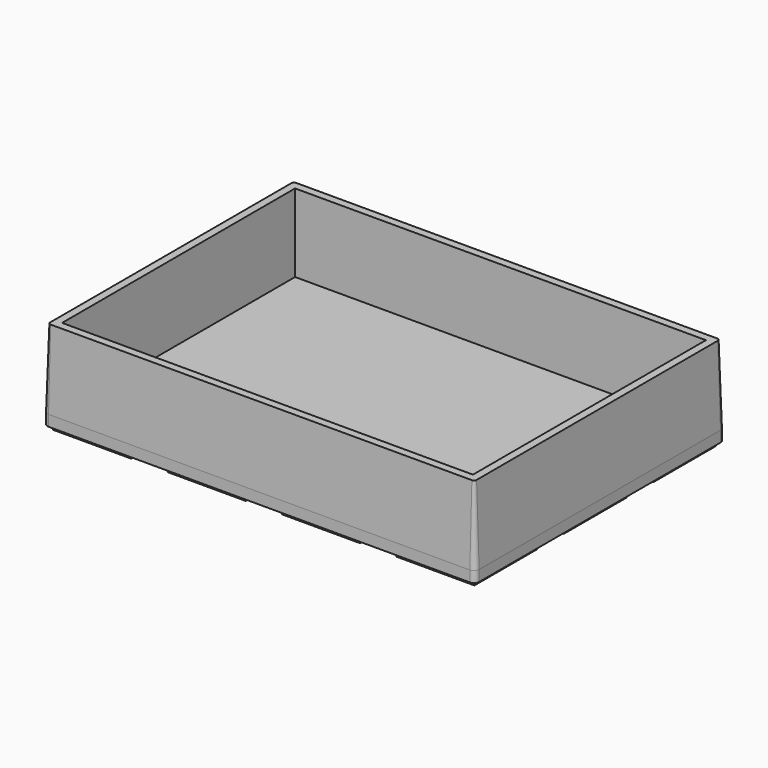
from build123d import *

# Parameters (mm, degrees)
F2_W     = 15
F2_H     = 15
F3_DEPTH = 1
F0_W     = 79
F0_H     = 56
F4_DEPTH = 2.1
F5_DEPTH = 15
F6_SIZE2 = 15
F6_SIZE  = 0.5


with BuildPart() as f3:
    # F2 (on offset) → F3 (new body)
    with BuildSketch(Plane.XY.offset(-2)):
        with Locations((-31.0763570666, -34.7923475802)):
            Rectangle(F2_W, F2_H)
    extrude(amount=-F3_DEPTH)


with BuildPart() as f3b:
    # F2 (on offset) → F3, piece 2 (new body)
    with BuildSketch(Plane.XY.offset(-2)):
        with Locations((-31.0763570666, -13.2923475802)):
            Rectangle(F2_W, F2_H)
    extrude(amount=-F3_DEPTH)


with BuildPart() as f3c:
    # F2 (on offset) → F3, piece 3 (new body)
    with BuildSketch(Plane.XY.offset(-2)):
        with Locations((-31.0763570666, 8.2076524198)):
            Rectangle(F2_W, F2_H)
    extrude(amount=-F3_DEPTH)


with BuildPart() as f3d:
    # F2 (on offset) → F3, piece 4 (new body)
    with BuildSketch(Plane.XY.offset(-2)):
        with Locations((-9.0763570666, -34.7923475802)):
            Rectangle(F2_W, F2_H)
    extrude(amount=-F3_DEPTH)


with BuildPart() as f3e:
    # F2 (on offset) → F3, piece 5 (new body)
    with BuildSketch(Plane.XY.offset(-2)):
        with Locations((-9.0763570666, -13.2923475802)):
            Rectangle(F2_W, F2_H)
    extrude(amount=-F3_DEPTH)


with BuildPart() as f3f:
    # F2 (on offset) → F3, piece 6 (new body)
    with BuildSketch(Plane.XY.offset(-2)):
        with Locations((-9.0763570666, 8.2076524198)):
            Rectangle(F2_W, F2_H)
    extrude(amount=-F3_DEPTH)


with BuildPart() as f3g:
    # F2 (on offset) → F3, piece 7 (new body)
    with BuildSketch(Plane.XY.offset(-2)):
        with Locations((12.9236429334, -34.7923475802)):
            Rectangle(F2_W, F2_H)
    extrude(amount=-F3_DEPTH)


with BuildPart() as f3h:
    # F2 (on offset) → F3, piece 8 (new body)
    with BuildSketch(Plane.XY.offset(-2)):
        with Locations((12.9236429334, -13.2923475802)):
            Rectangle(F2_W, F2_H)
    extrude(amount=-F3_DEPTH)


with BuildPart() as f3i:
    # F2 (on offset) → F3, piece 9 (new body)
    with BuildSketch(Plane.XY.offset(-2)):
        with Locations((12.9236429334, 8.2076524198)):
            Rectangle(F2_W, F2_H)
    extrude(amount=-F3_DEPTH)


with BuildPart() as f3j:
    # F2 (on offset) → F3, piece 10 (new body)
    with BuildSketch(Plane.XY.offset(-2)):
        with Locations((34.9236429334, -34.7923475802)):
            Rectangle(F2_W, F2_H)
    extrude(amount=-F3_DEPTH)


with BuildPart() as f3k:
    # F2 (on offset) → F3, piece 11 (new body)
    with BuildSketch(Plane.XY.offset(-2)):
        with Locations((34.9236429334, -13.2923475802)):
            Rectangle(F2_W, F2_H)
    extrude(amount=-F3_DEPTH)


with BuildPart() as f3l:
    # F2 (on offset) → F3, piece 12 (new body)
    with BuildSketch(Plane.XY.offset(-2)):
        with Locations((34.9236429334, 8.2076524198)):
            Rectangle(F2_W, F2_H)
    extrude(amount=-F3_DEPTH)


with BuildPart() as f4:
    # F0 (on Top) → F4 (new body)
    with BuildSketch(Plane.XY):
        with BuildLine():
            Line((42.3371575624, 16.709325991), (-38.6628424376, 16.709325991))
            ThreePointArc((-38.6628424376, 16.709325991), (-39.3699492188, 16.4164327722), (-39.6628424376, 15.709325991))
            Line((-39.6628424376, 15.709325991), (-39.6628424376, -42.290674009))
            ThreePointArc((-39.6628424376, -42.290674009), (-39.3699492188, -42.9977807901), (-38.6628424376, -43.290674009))
            Line((-38.6628424376, -43.290674009), (42.3371575624, -43.290674009))
            ThreePointArc((42.3371575624, -43.290674009), (43.0442643436, -42.9977807901), (43.3371575624, -42.290674009))
            Line((43.3371575624, -42.290674009), (43.3371575624, 15.709325991))
            ThreePointArc((43.3371575624, 15.709325991), (43.0442643436, 16.4164327722), (42.3371575624, 16.709325991))
        make_face()
        with Locations((1.8371575624, -13.290674009)):
            Rectangle(F0_W, F0_H, mode=Mode.SUBTRACT)
        with Locations((1.8371575624, -13.290674009)):
            Rectangle(F0_W, F0_H)
    extrude(amount=-F4_DEPTH)

    # F0 (on Top) → F5 (join)
    with BuildSketch(Plane.XY):
        with BuildLine():
            Line((42.3371575624, 16.709325991), (-38.6628424376, 16.709325991))
            ThreePointArc((-38.6628424376, 16.709325991), (-39.3699492188, 16.4164327722), (-39.6628424376, 15.709325991))
            Line((-39.6628424376, 15.709325991), (-39.6628424376, -42.290674009))
            ThreePointArc((-39.6628424376, -42.290674009), (-39.3699492188, -42.9977807901), (-38.6628424376, -43.290674009))
            Line((-38.6628424376, -43.290674009), (42.3371575624, -43.290674009))
            ThreePointArc((42.3371575624, -43.290674009), (43.0442643436, -42.9977807901), (43.3371575624, -42.290674009))
            Line((43.3371575624, -42.290674009), (43.3371575624, 15.709325991))
            ThreePointArc((43.3371575624, 15.709325991), (43.0442643436, 16.4164327722), (42.3371575624, 16.709325991))
        make_face()
        with Locations((1.8371575624, -13.290674009)):
            Rectangle(F0_W, F0_H, mode=Mode.SUBTRACT)
    extrude(amount=F5_DEPTH)

    # F6
    f6_edges = [f4.edges().sort_by_distance(p)[0] for p in [
        (43.337158, -13.290674, 15),
    ]]
    f6_side = f4.faces().sort_by_distance((42.312999, -13.290674, 15))[0]
    chamfer(f6_edges, length=F6_SIZE, length2=F6_SIZE2, reference=f6_side)


solid = Compound([f3.part, f3b.part, f3c.part, f3d.part, f3e.part, f3f.part, f3g.part, f3h.part, f3i.part, f3j.part, f3k.part, f3l.part, f4.part])
